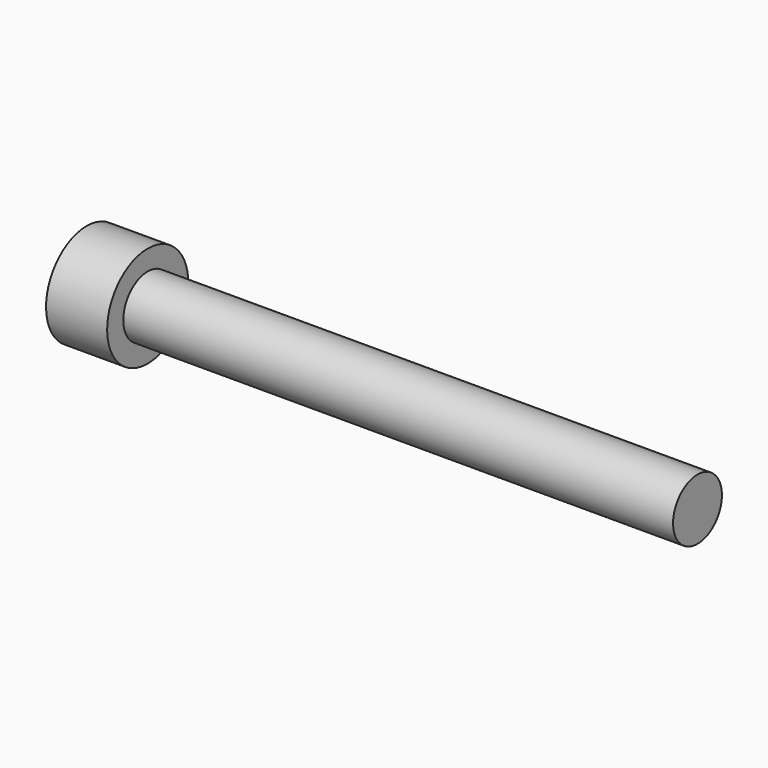
from build123d import *

# Parameters (mm, degrees)
F0_W     = 45
F0_H     = 2.5
F3_DEPTH = 2.5


with BuildPart() as f1:
    # F0 (on Front) → F1 (revolve)
    with BuildSketch(Plane.XZ):
        with Locations((22.5, 1.25)):
            Rectangle(F0_W, F0_H)
        Polygon((0, 0), (0, 2.5), (0, 4.15), (-5, 4.15), (-5, 0), align=None)
    revolve(axis=Axis((22.5, 0, 0), (1, 0, 0)))

    # F2 (on face) → F3 (cut)
    with BuildSketch(Plane(origin=(-5, 0, 0), x_dir=(0, -1, 0), z_dir=(-1, 0, 0))):
        Polygon((0, 2.309401), (-2, 1.154701), (-2, -1.154701), (0, -2.309401), (2, -1.154701), (2, 1.154701), align=None)
    extrude(amount=-F3_DEPTH, mode=Mode.SUBTRACT)


solid = f1.part
